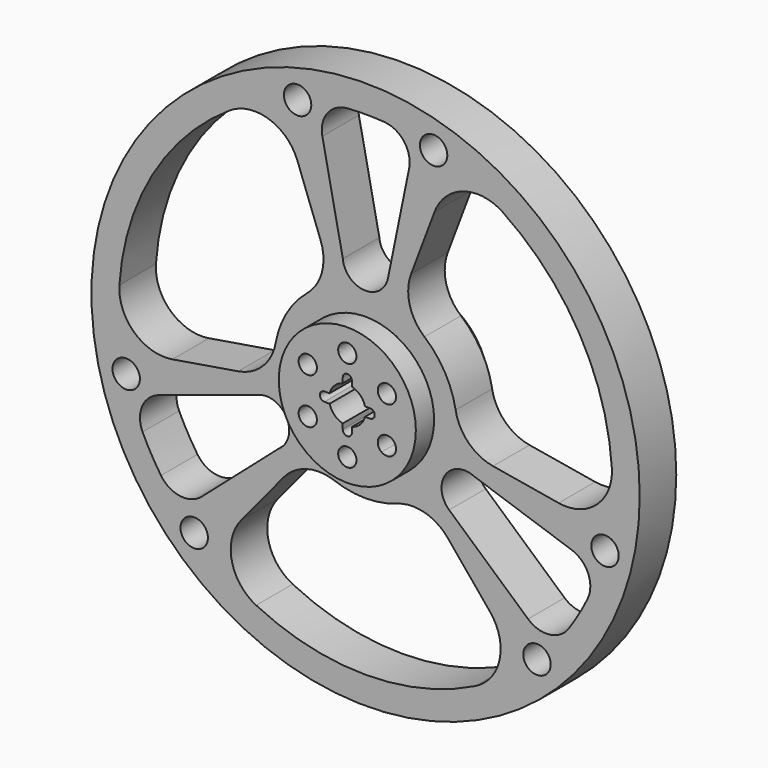
from build123d import *

# Parameters (mm, degrees)
F0_R     = 1524
F0_R_2   = 76.2
F0_R_3   = 381
F1_DEPTH = 127
F0_R_4   = 50.8
F2_DEPTH = 254


with BuildPart() as f1:
    # F0 (on Front) → F1 (new body, symmetric)
    with BuildSketch(Plane.XZ):
        Circle(F0_R)
        with Locations((-952.7934209216, -986.6464701445)):
            Circle(F0_R_2, mode=Mode.SUBTRACT)
        with BuildLine():
            ThreePointArc((-457.9053504594, -400.1000484938), (-468.1131789064, -410.085304333), (-479.3774223299, -418.8615174044))
            Line((-479.3774223299, -418.8615174044), (-910.9038693797, -795.912696688))
            ThreePointArc((-910.9038693797, -795.912696688), (-1030.9257108821, -832.2649328935), (-1137.576874164, -766.2932959169))
            ThreePointArc((-1137.576874164, -766.2932959169), (-1192.0583817441, -678.4418726123), (-1239.7687445234, -586.7367553707))
            ThreePointArc((-1239.7687445234, -586.7367553707), (-1242.0258297805, -461.3508188351), (-1149.4792989484, -376.7230033977))
            Line((-1149.4792989484, -376.7230033977), (-591.2283551327, -193.7654047735))
            ThreePointArc((-591.2283551327, -193.7654047735), (-445.0065240513, -245.5248685551), (-457.9053504594, -400.1000484938))
        make_face(mode=Mode.SUBTRACT)
        with Locations((-1330.8576181602, -331.8200720045)):
            Circle(F0_R_2, mode=Mode.SUBTRACT)
        with BuildLine():
            ThreePointArc((609.719294749, -1228.6288868535), (0.7162959224, -1371.599812963), (-608.4356992081, -1229.2650486893))
            ThreePointArc((-608.4356992081, -1229.2650486893), (-744.1210351679, -1054.858690749), (-691.8394131488, -840.1618810765))
            Line((-691.8394131488, -840.1618810765), (-456.6820633758, -554.5894815003))
            ThreePointArc((-456.6820633758, -554.5894815003), (-327.4814291916, -471.0131134521), (-173.736714536, -477.36731562))
            ThreePointArc((-173.736714536, -477.36731562), (0.2652947861, -507.999930727), (174.2352144261, -477.1855928817))
            ThreePointArc((174.2352144261, -477.1855928817), (327.973208463, -470.670812819), (457.2610649757, -554.1121894141))
            Line((457.2610649757, -554.1121894141), (692.7165575763, -839.4388190092))
            ThreePointArc((692.7165575763, -839.4388190092), (745.2223949223, -1054.080905118), (609.719294749, -1228.6288868535))
        make_face(mode=Mode.SUBTRACT)
        with Locations((952.7934209216, -986.6464701445)):
            Circle(F0_R_2, mode=Mode.SUBTRACT)
        with BuildLine():
            ThreePointArc((575.96675921, -194.9862843103), (589.7282782587, -198.7975425346), (602.9749600018, -204.1295701581))
            Line((602.9749600018, -204.1295701581), (1145.7615620175, -387.883130599))
            ThreePointArc((1145.7615620175, -387.883130599), (1237.4807664643, -473.4068995198), (1234.0044911274, -598.7649587922))
            ThreePointArc((1234.0044911274, -598.7649587922), (1185.4046115117, -690.0017876837), (1130.0713819235, -777.3192598652))
            ThreePointArc((1130.0713819235, -777.3192598652), (1022.7837300633, -842.2506642323), (903.1210653954, -804.7330123954))
            Line((903.1210653954, -804.7330123954), (464.5153527062, -413.9099987923))
            ThreePointArc((464.5153527062, -413.9099987923), (435.8265224597, -261.4737268789), (575.96675921, -194.9862843103))
        make_face(mode=Mode.SUBTRACT)
        with Locations((1330.8576181602, -331.8200720045)):
            Circle(F0_R_2, mode=Mode.SUBTRACT)
        with BuildLine():
            ThreePointArc((-249.9698044747, 673.5303236313), (-242.6424045618, 519.8289170657), (-325.3991560413, 390.1017678089))
            ThreePointArc((-325.3991560413, 390.1017678089), (-439.326020006, 255.0620476389), (-500.112630106, 89.1703830232))
            ThreePointArc((-500.112630106, 89.1703830232), (-571.7400911999, -47.0181627029), (-708.8521618191, -116.8615107058))
            Line((-708.8521618191, -116.8615107058), (-1073.858386329, -177.0365106716))
            ThreePointArc((-1073.858386329, -177.0365106716), (-1285.8141753404, -114.5638639443), (-1368.6240718664, 90.3034324255))
            ThreePointArc((-1368.6240718664, 90.3034324255), (-1186.1802540161, 688.6675286249), (-756.9997618876, 1143.7822871955))
            ThreePointArc((-756.9997618876, 1143.7822871955), (-538.0286699907, 1173.4428502045), (-378.6856912101, 1020.3484244476))
            Line((-378.6856912101, 1020.3484244476), (-249.9698044747, 673.5303236313))
        make_face(mode=Mode.SUBTRACT)
        with Locations((-378.0641972386, 1318.466542149)):
            Circle(F0_R_2, mode=Mode.SUBTRACT)
        Circle(F0_R_3, mode=Mode.SUBTRACT)
        with BuildLine():
            ThreePointArc((327.1765680913, 388.6122660082), (245.0128793387, 518.7158455912), (253.0418450906, 672.382201306))
            Line((253.0418450906, 672.382201306), (383.3396046157, 1018.6091043836))
            ThreePointArc((383.3396046157, 1018.6091043836), (543.3797944563, 1170.9745391787), (762.2132052215, 1140.3146889284))
            ThreePointArc((762.2132052215, 1140.3146889284), (1189.3116406372, 683.2454767101), (1369.0220438397, 84.0547647718))
            ThreePointArc((1369.0220438397, 84.0547647718), (1285.2777972555, -120.4323723507), (1073.039031015, -181.936796494))
            Line((1073.039031015, -181.936796494), (708.3113067184, -120.0961813504))
            ThreePointArc((708.3113067184, -120.0961813504), (571.5194974744, -49.6276487027), (500.5144792214, 86.886455157))
            ThreePointArc((500.5144792214, 86.886455157), (440.4857928286, 253.053880263), (327.1765680913, 388.6122660082))
        make_face(mode=Mode.SUBTRACT)
        with BuildLine():
            ThreePointArc((124.4340789334, 609.6), (7.0579729459, 508.1962736435), (-120.8466148532, 595.9475266016))
            ThreePointArc((-120.8466148532, 595.9475266016), (-124.4667442567, 609.7605551935), (-126.5133475018, 623.8926644111))
            Line((-126.5133475018, 623.8926644111), (-240.3982590742, 1185.5089864839))
            ThreePointArc((-240.3982590742, 1185.5089864839), (-212.5460818323, 1307.7832018265), (-102.4179367119, 1367.7708602831))
            ThreePointArc((-102.4179367119, 1367.7708602831), (0.8847598606, 1371.5997146398), (104.1824308091, 1367.6375912904))
            ThreePointArc((104.1824308091, 1367.6375912904), (214.2330934074, 1307.5079049746), (241.9274998837, 1185.1978589248))
            Line((241.9274998837, 1185.1978589248), (124.4340789334, 609.6))
        make_face(mode=Mode.SUBTRACT)
        with Locations((378.0641972386, 1318.466542149)):
            Circle(F0_R_2, mode=Mode.SUBTRACT)
    extrude(amount=F1_DEPTH, both=True)

    # F0 (on Front) → F2 (join, symmetric)
    with BuildSketch(Plane.XZ):
        Circle(F0_R_3)
        with BuildLine():
            ThreePointArc((-240.8437244125, -80.6864326334), (-192.399836047, -84.3326693473), (-169.1704525612, -127))
            ThreePointArc((-169.1704525612, -127), (-171.3885169329, -141.8470714488), (-177.8490167583, -155.3976169053))
            ThreePointArc((-177.8490167583, -155.3976169053), (-183.5044685322, -162.367668976), (-190.2983626075, -168.2335673666))
            ThreePointArc((-190.2983626075, -168.2335673666), (-193.7997453034, -170.5400284982), (-197.4794041151, -172.5498928626))
            ThreePointArc((-197.4794041151, -172.5498928626), (-265.909304654, -148.685522092), (-240.8437244125, -80.6864326334))
        make_face(mode=Mode.SUBTRACT)
        with Locations((0, -254)):
            Circle(F0_R_4, mode=Mode.SUBTRACT)
        with BuildLine():
            ThreePointArc((245.6225220887, -83.1524079457), (264.0372491999, -101.7263490171), (270.7704525612, -127))
            ThreePointArc((270.7704525612, -127), (243.136136561, -172.2105196257), (190.2983626075, -168.2335673666))
            ThreePointArc((190.2983626075, -168.2335673666), (172.6754226226, -108.45761226), (226.2291132873, -76.5870139159))
            ThreePointArc((226.2291132873, -76.5870139159), (233.6903924227, -78.0878005995), (240.8437244125, -80.6864326334))
            ThreePointArc((240.8437244125, -80.6864326334), (243.2657762585, -81.8561422358), (245.6225220887, -83.1524079457))
        make_face(mode=Mode.SUBTRACT)
        with Locations((-219.9704525612, 127)):
            Circle(F0_R_4, mode=Mode.SUBTRACT)
        with BuildLine():
            ThreePointArc((-98.3737769937, 25.4), (-71.8420489686, 71.8420489686), (-25.4, 98.3737769937))
            Line((-25.4, 98.3737769937), (-25.4, 127))
            ThreePointArc((-25.4, 127), (0, 152.4), (25.4, 127))
            Line((25.4, 127), (25.4, 98.3737769937))
            ThreePointArc((25.4, 98.3737769937), (71.8420489686, 71.8420489686), (98.3737769937, 25.4))
            Line((98.3737769937, 25.4), (127, 25.4))
            ThreePointArc((127, 25.4), (152.4, 0), (127, -25.4))
            Line((127, -25.4), (98.3737769937, -25.4))
            ThreePointArc((98.3737769937, -25.4), (71.8420489686, -71.8420489686), (25.4, -98.3737769937))
            Line((25.4, -98.3737769937), (25.4, -127))
            ThreePointArc((25.4, -127), (0, -152.4), (-25.4, -127))
            Line((-25.4, -127), (-25.4, -98.3737769937))
            ThreePointArc((-25.4, -98.3737769937), (-71.8420489686, -71.8420489686), (-98.3737769937, -25.4))
            Line((-98.3737769937, -25.4), (-127, -25.4))
            ThreePointArc((-127, -25.4), (-152.4, 0), (-127, 25.4))
            Line((-127, 25.4), (-98.3737769937, 25.4))
        make_face(mode=Mode.SUBTRACT)
        with Locations((219.9704525612, 127)):
            Circle(F0_R_4, mode=Mode.SUBTRACT)
        with Locations((0, 254)):
            Circle(F0_R_4, mode=Mode.SUBTRACT)
    extrude(amount=F2_DEPTH, both=True)


solid = f1.part
